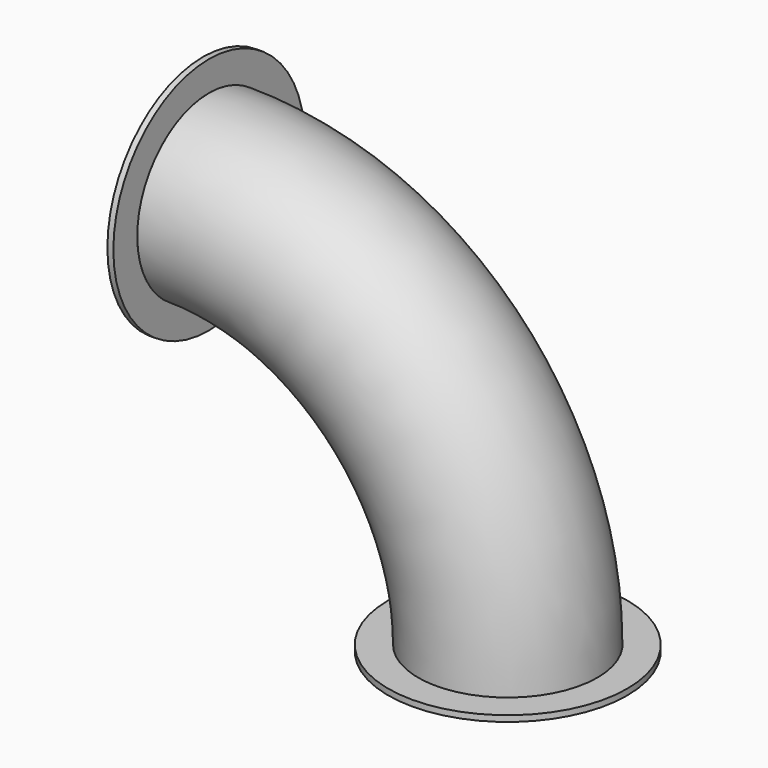
from build123d import *

# Parameters (mm, degrees)
F1_R     = 75
F3_R     = 100
F3_R_2   = 75
F4_DEPTH = 5
F5_R     = 100
F5_R_2   = 75
F6_DEPTH = 5


with BuildPart() as f2:
    # F2: sweep along a path in F0
    with BuildLine(Plane.XZ) as f2_path:
        ThreePointArc((250, 0), (176.7766952966, 176.7766952966), (0, 250))
    # F1 (on Top) → F2 (sweep)
    with BuildSketch(Plane.XY):
        with Locations((250, 0)):
            Circle(F1_R)
    sweep(path=f2_path.line)


with BuildPart() as f4:
    # F3 (on face) → F4 (new body)
    with BuildSketch(Plane(origin=(0, 0, 0), x_dir=(1, 0, 0), z_dir=(0, 0, -1))):
        with Locations((250, 0)):
            Circle(F3_R)
        with Locations((250, 0)):
            Circle(F3_R_2, mode=Mode.SUBTRACT)
    extrude(amount=F4_DEPTH)


with BuildPart() as f6:
    # F5 (on face) → F6 (new body)
    with BuildSketch(Plane(origin=(0, 0, 0), x_dir=(0, -1, 0), z_dir=(-1, 0, 0))):
        with Locations((0, 250)):
            Circle(F5_R)
        with Locations((0, 250)):
            Circle(F5_R_2, mode=Mode.SUBTRACT)
    extrude(amount=F6_DEPTH)


solid = Compound([f2.part, f4.part, f6.part])
